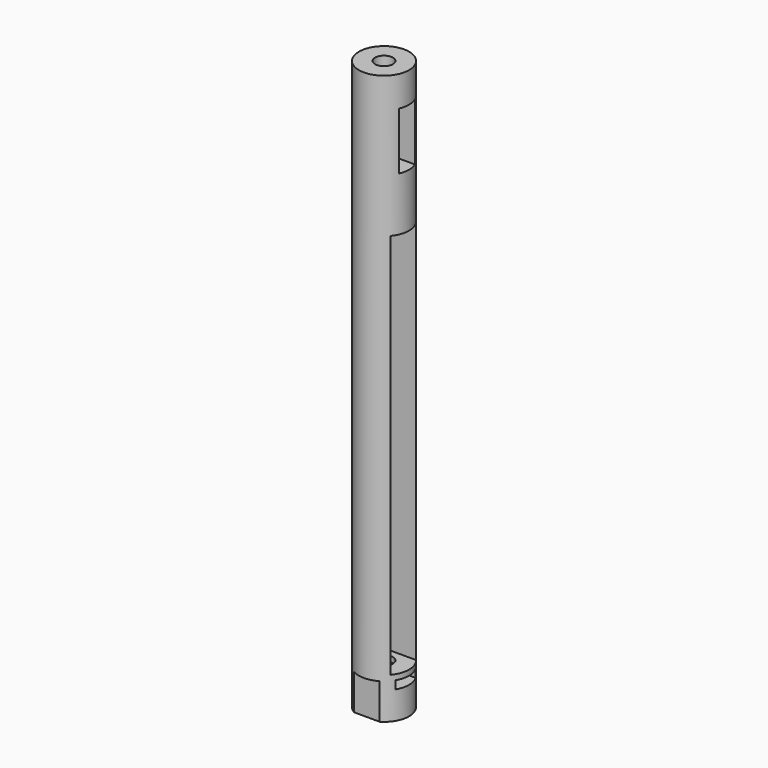
from build123d import *

# Parameters (mm, degrees)
F0_R      = 14
F1_DEPTH  = 159
F3_W      = 18
F3_H      = 216
F4_DEPTH  = 19
F3_W_2    = 14
F3_H_2    = 4.5
F5_DEPTH  = 18
F7_W      = 20
F7_H      = 29
F7_H_2    = 25
F7_H_3    = 23
F8_DEPTH  = 8.6
F3_W_3    = 11
F3_H_3    = 32
F9_DEPTH  = 10
F13_R     = 10.5
F14_DEPTH = 11
F11_R     = 5
F15_DEPTH = 318
F13_R_2   = 11.25
F16_DEPTH = 4
F17_DEPTH = 20


with BuildPart() as f1:
    # F0 (on Top) → F1 (new body, symmetric)
    with BuildSketch(Plane.XY):
        Circle(F0_R)
    extrude(amount=F1_DEPTH, both=True)

    # F3 (on offset) → F4 (cut)
    with BuildSketch(Plane.YZ.offset(14)):
        with Locations((0, -28)):
            Rectangle(F3_W, F3_H)
    extrude(amount=-F4_DEPTH, mode=Mode.SUBTRACT)

    # F3 (on offset) → F5 (cut)
    with BuildSketch(Plane.YZ.offset(14)):
        with Locations((0, -141.25)):
            Rectangle(F3_W_2, F3_H_2)
    extrude(amount=-F5_DEPTH, mode=Mode.SUBTRACT)

    # F7 (on offset) → F8 (cut)
    with BuildSketch(Plane.YZ.offset(-14)):
        Polygon((-10, -98), (-10, -136), (-2.5, -136), (2.5, -136), (10, -136), (10, -98), align=None)
        with Locations((0, -60.5)):
            Rectangle(F7_W, F7_H)
        with Locations((0, -10.5)):
            Rectangle(F7_W, F7_H_2)
        Polygon((-10, 47), (-10, 25), (10, 25), (10, 47), (2.5, 47), (-2.5, 47), align=None)
        Polygon((-10, -98), (-10, -136), (-2.5, -136), (2.5, -136), (10, -136), (10, -98), align=None)
        with Locations((0, -86.5)):
            Rectangle(F7_W, F7_H_3)
        with Locations((0, -34.5)):
            Rectangle(F7_W, F7_H_3)
        with Locations((0, 13.5)):
            Rectangle(F7_W, F7_H_3)
        Polygon((-10, 97), (-10, 47), (-2.5, 47), (2.5, 47), (10, 47), (10, 97), align=None)
    extrude(amount=F8_DEPTH, mode=Mode.SUBTRACT)

    # F3 (on offset) → F9 (cut)
    with BuildSketch(Plane.YZ.offset(14)):
        with Locations((0, 126)):
            Rectangle(F3_W_3, F3_H_3)
    extrude(amount=-F9_DEPTH, mode=Mode.SUBTRACT)

    # F13 (on offset) → F14 (cut)
    with BuildSketch(Plane.XY.offset(-159)):
        Circle(F13_R)
        Circle(F13_R)
    extrude(amount=F14_DEPTH, mode=Mode.SUBTRACT)

    # F11 (on offset) → F15 (cut)
    with BuildSketch(Plane.XY.offset(159)):
        Circle(F11_R)
    extrude(amount=-F15_DEPTH, mode=Mode.SUBTRACT)

    # F13 (on offset) → F16 (cut)
    with BuildSketch(Plane.XY.offset(-159)):
        Circle(F13_R_2)
        Circle(F13_R, mode=Mode.SUBTRACT)
    extrude(amount=F16_DEPTH, mode=Mode.SUBTRACT)

    # F13 (on offset) → F17 (cut)
    with BuildSketch(Plane.XY.offset(-159)):
        with BuildLine():
            ThreePointArc((-7.2111025509, -12), (-3.7416573868, -13.4907375632), (0, -14))
            Line((0, -14), (0, -12))
            Line((0, -12), (-7.2111025509, -12))
        make_face()
        with BuildLine():
            ThreePointArc((0, -14), (3.7416573868, -13.4907375632), (7.2111025509, -12))
            Line((7.2111025509, -12), (0, -12))
            Line((0, -12), (0, -14))
        make_face()
        with BuildLine():
            Line((-7.2111025509, 12), (7.2111025509, 12))
            ThreePointArc((7.2111025509, 12), (0, 14), (-7.2111025509, 12))
        make_face()
    extrude(amount=F17_DEPTH, mode=Mode.SUBTRACT)


solid = f1.part
